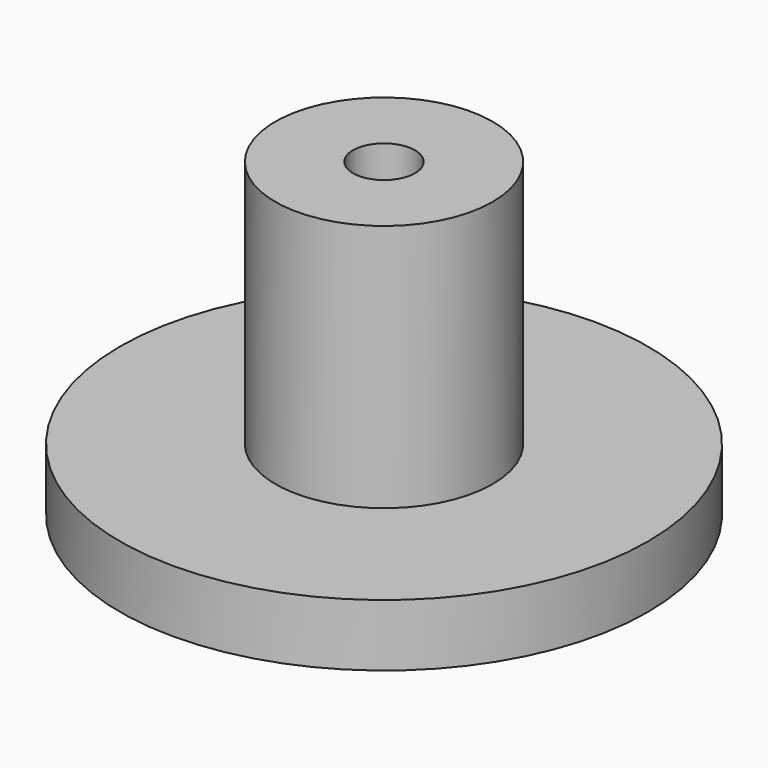
from build123d import *


with BuildPart() as part:
    # Sketch → Revolution (revolve)
    with BuildSketch(Plane.XZ):
        Polygon((2, 20), (2, 4.5), (4, 4.5), (4, 1.5), (10.5, 1.5), (10.5, 0), (17, 0), (17, 4), (7, 4), (7, 20), align=None)
    revolve(axis=Axis((0, 0, 0), (0, 0, 1)))


solid = part.part
